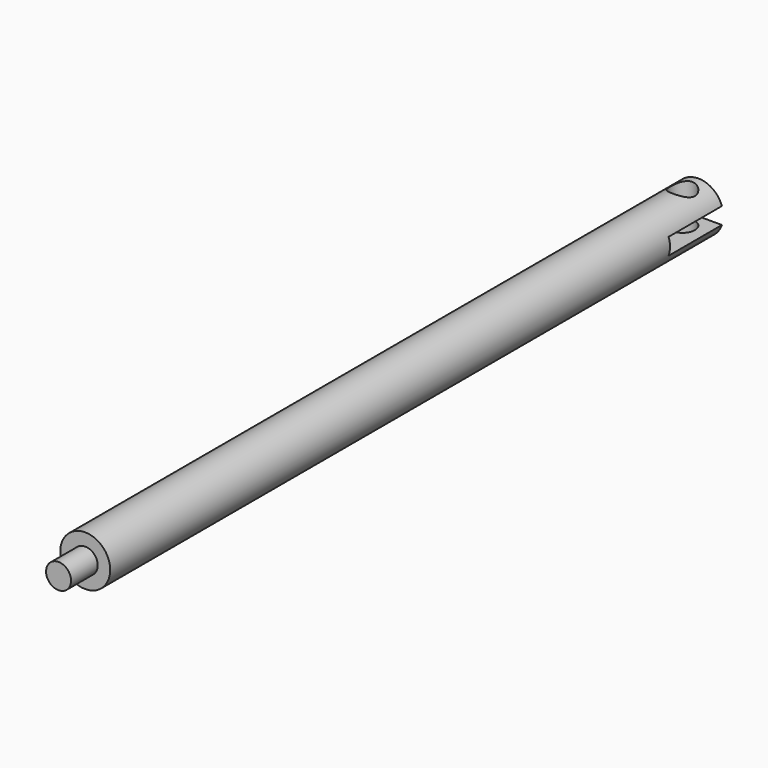
from build123d import *

# Parameters (mm, degrees)
F0_R          = 4.7625
F1_DEPTH      = 152.4
F2_W          = 6.35
F2_H          = 4.7452268491
F5_DEPTH      = 4.7635
F5_DEPTH_BACK = 4.7635
F6_R          = 2.38125
F7_DEPTH      = 12.7


with BuildPart() as f1:
    # F0 (on Front) → F1 (new body)
    with BuildSketch(Plane.XZ):
        Circle(F0_R)
    extrude(amount=F1_DEPTH)

    # F2 (on Right) → F3 (revolve, cut)
    with BuildSketch(Plane.YZ):
        with Locations((-149.225, 4.7500534246)):
            Rectangle(F2_W, F2_H)
    revolve(axis=Axis((0, -25.3480933607, 0), (0, -1, 0)), mode=Mode.SUBTRACT)

    # F4 (on Right) → F5 (cut, two sides)
    with BuildSketch(Plane.YZ) as f5_sk:
        Polygon((0, -1.5875), (0, 0), (0, 1.5875), (-12.7, 1.5875), (-12.7, 0), (-12.7, -1.5875), align=None)
    extrude(amount=-F5_DEPTH, mode=Mode.SUBTRACT)
    extrude(f5_sk.sketch, amount=F5_DEPTH_BACK, mode=Mode.SUBTRACT)

    # F6 (on Top) → F7 (cut, symmetric)
    with BuildSketch(Plane.XY):
        with Locations((0, -3.81)):
            Circle(F6_R)
    extrude(amount=F7_DEPTH, both=True, mode=Mode.SUBTRACT)


solid = f1.part
